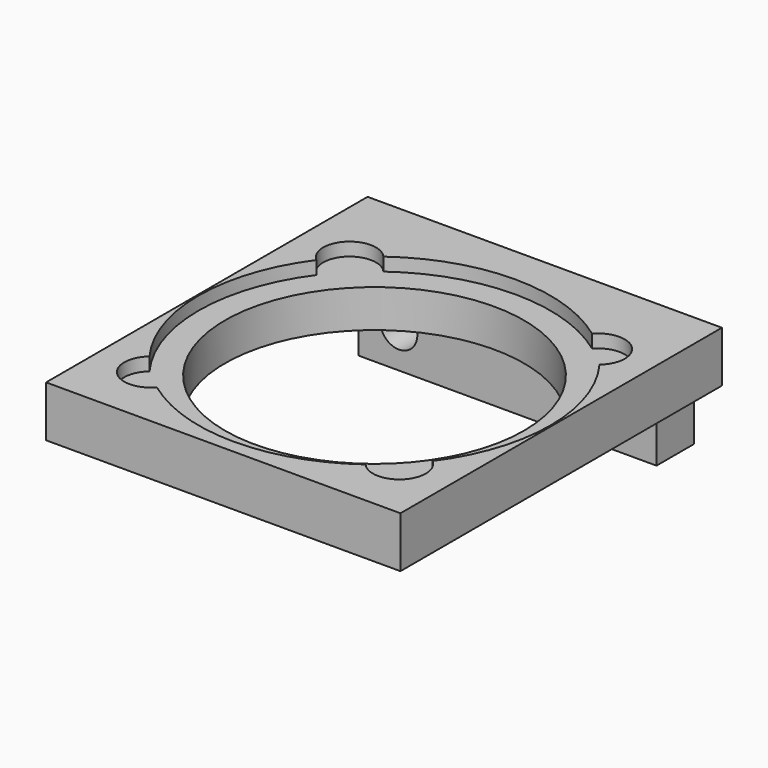
from build123d import *

# Parameters (mm, degrees)
F0_W     = 20.15
F0_H     = 22.85
F1_DEPTH = 0.75
F2_W     = 20.15
F2_H     = 22.85
F2_R     = 8.5
F3_DEPTH = 2.15
F4_W     = 16.95
F4_H     = 2.65
F5_DEPTH = 3.45
F6_R     = 1.05
F7_DEPTH = 22.851


with BuildPart() as f1:
    # F0 (on Top) → F1 (new body)
    with BuildSketch(Plane.XY):
        with Locations((0, 0.675)):
            Rectangle(F0_W, F0_H)
        with BuildLine():
            ThreePointArc((8.049191, 5.933845), (9.499787, 3.123147), (10, 0))
            ThreePointArc((10, 0), (9.499787, -3.123147), (8.049191, -5.933845))
            ThreePointArc((8.049191, -5.933845), (8.43437, -6.445442), (8.571068, -7.071068))
            ThreePointArc((8.571068, -7.071068), (7.592684, -8.477452), (5.933845, -8.049191))
            ThreePointArc((5.933845, -8.049191), (0, -10), (-5.933845, -8.049191))
            ThreePointArc((-5.933845, -8.049191), (-8.131728, -8.131728), (-8.049191, -5.933845))
            ThreePointArc((-8.049191, -5.933845), (-10, 0), (-8.049191, 5.933845))
            ThreePointArc((-8.049191, 5.933845), (-8.131728, 8.131728), (-5.933845, 8.049191))
            ThreePointArc((-5.933845, 8.049191), (0, 10), (5.933845, 8.049191))
            ThreePointArc((5.933845, 8.049191), (7.592684, 8.477452), (8.571068, 7.071068))
            ThreePointArc((8.571068, 7.071068), (8.43437, 6.445442), (8.049191, 5.933845))
        make_face(mode=Mode.SUBTRACT)
    extrude(amount=F1_DEPTH)

    # F2 (on face) → F3 (join)
    with BuildSketch(Plane(origin=(0, 0, 0), x_dir=(1, 0, 0), z_dir=(0, 0, -1))):
        with Locations((0, -0.675)):
            Rectangle(F2_W, F2_H)
        Circle(F2_R, mode=Mode.SUBTRACT)
    extrude(amount=F3_DEPTH)

    # F4 (on face) → F5 (join)
    with BuildSketch(Plane(origin=(0, 0, -2.15), x_dir=(1, 0, 0), z_dir=(0, 0, -1))):
        with Locations((0, -10.775)):
            Rectangle(F4_W, F4_H)
    extrude(amount=F5_DEPTH)

    # F6 (on face) → F7 (cut, through all)
    with BuildSketch(Plane(origin=(0, 12.1, 0), x_dir=(-1, 0, 0), z_dir=(0, 1, 0))):
        with Locations((-6.175, -3.5)):
            Circle(F6_R)
        with Locations((6.175, -3.5)):
            Circle(F6_R)
    extrude(amount=-F7_DEPTH, mode=Mode.SUBTRACT)


solid = f1.part
